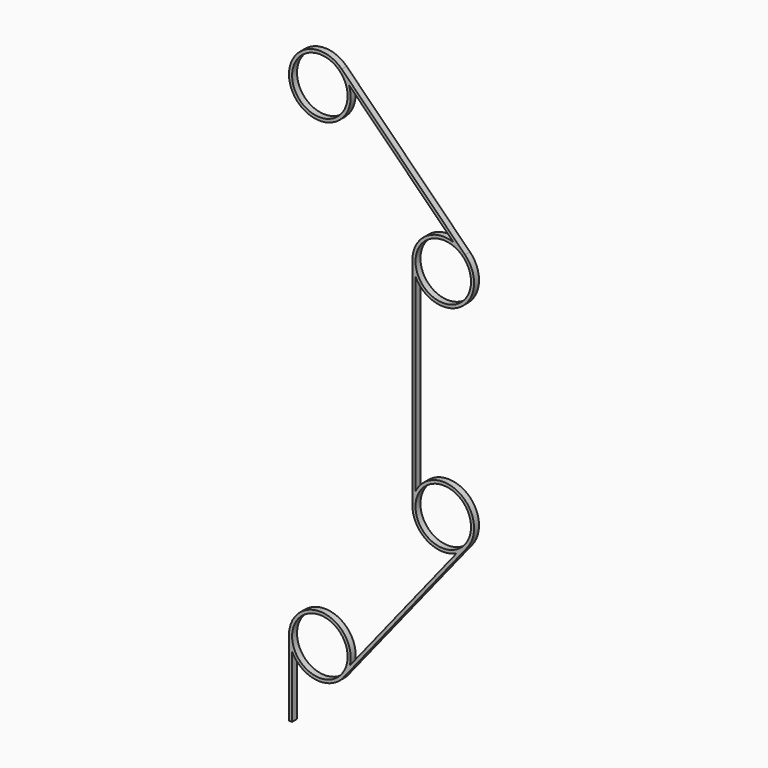
from build123d import *

# Parameters (mm, degrees)
F0_R     = 11.43
F1_DEPTH = 2.54


with BuildPart() as f1:
    # F0 (on Front) → F1 (new body)
    with BuildSketch(Plane.XZ):
        with BuildLine():
            Line((56.267143, 52.037001), (12.383518, -2.81753))
            ThreePointArc((12.383518, -2.81753), (1.417624, 12.620632), (-12.7, 0))
            Line((-12.7, 0), (-12.7, -31.059889))
            Line((-12.7, -31.059889), (-11.43, -31.059889))
            Line((-11.43, -31.059889), (-11.43, -5.535802))
            ThreePointArc((-11.43, -5.535802), (-1.968076, -12.54658), (9.186023, -8.769662))
            Line((9.186023, -8.769662), (60.712359, 55.560532))
            ThreePointArc((60.712359, 55.560532), (57.580231, 74.238644), (39.37, 69.035802))
            Line((39.37, 69.035802), (39.37, 146.864198))
            ThreePointArc((39.37, 146.864198), (58.160659, 142.05057), (59.780256, 161.380256))
            Line((59.780256, 161.380256), (8.980256, 212.180256))
            ThreePointArc((8.980256, 212.180256), (-10.760917, 196.455175), (11.996633, 207.367828))
            Line((11.996633, 207.367828), (54.967828, 164.396633))
            ThreePointArc((54.967828, 164.396633), (43.439341, 162.74943), (38.1, 152.4))
            Line((38.1, 152.4), (38.1, 63.5))
            ThreePointArc((38.1, 63.5), (44.022932, 52.75936), (56.267143, 52.037001))
        make_face()
        Circle(F0_R, mode=Mode.SUBTRACT)
        with Locations((50.8, 63.5)):
            Circle(F0_R, mode=Mode.SUBTRACT)
        with Locations((0, 203.2)):
            Circle(F0_R, mode=Mode.SUBTRACT)
        with Locations((50.8, 152.4)):
            Circle(F0_R, mode=Mode.SUBTRACT)
    extrude(amount=F1_DEPTH)


solid = f1.part
